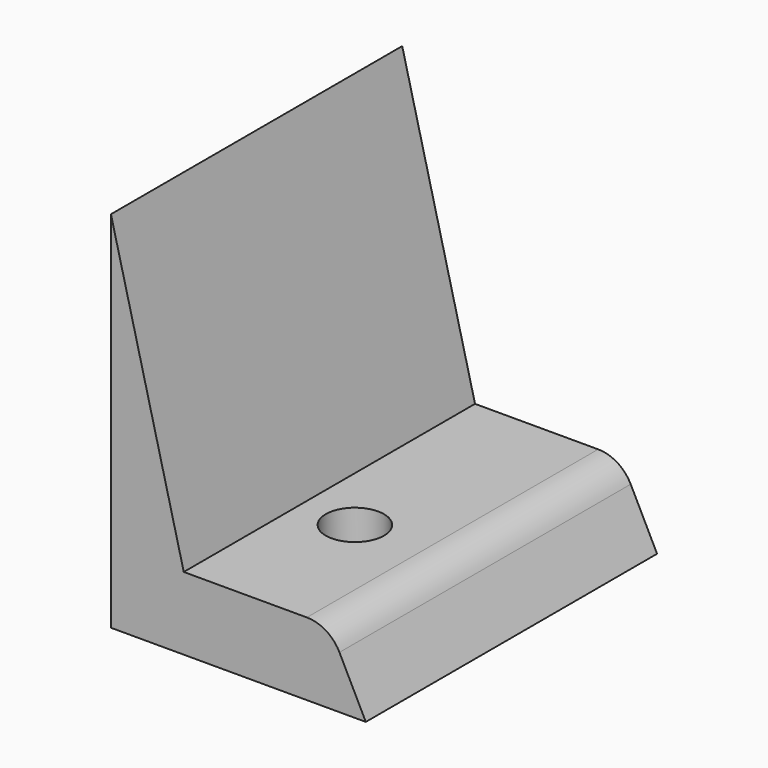
from build123d import *

# Parameters (mm, degrees)
F1_DEPTH = 100
F2_R     = 10
F3_R     = 8
F4_DEPTH = 20.001


with BuildPart() as f1:
    # F0 (on Front) → F1 (new body)
    with BuildSketch(Plane.XZ):
        Polygon((0, 100), (0, 0), (70, 0), (60, 20), (20, 20), align=None)
    extrude(amount=-F1_DEPTH)

    # F2
    f2_edges = [f1.edges().sort_by_distance(p)[0] for p in [
        (60, 50, 20),
    ]]
    fillet(f2_edges, radius=F2_R)

    # F3 (on face) → F4 (cut, through all)
    with BuildSketch(Plane.XY.offset(20)):
        with Locations((35, 40)):
            Circle(F3_R)
    extrude(amount=-F4_DEPTH, mode=Mode.SUBTRACT)


solid = f1.part
